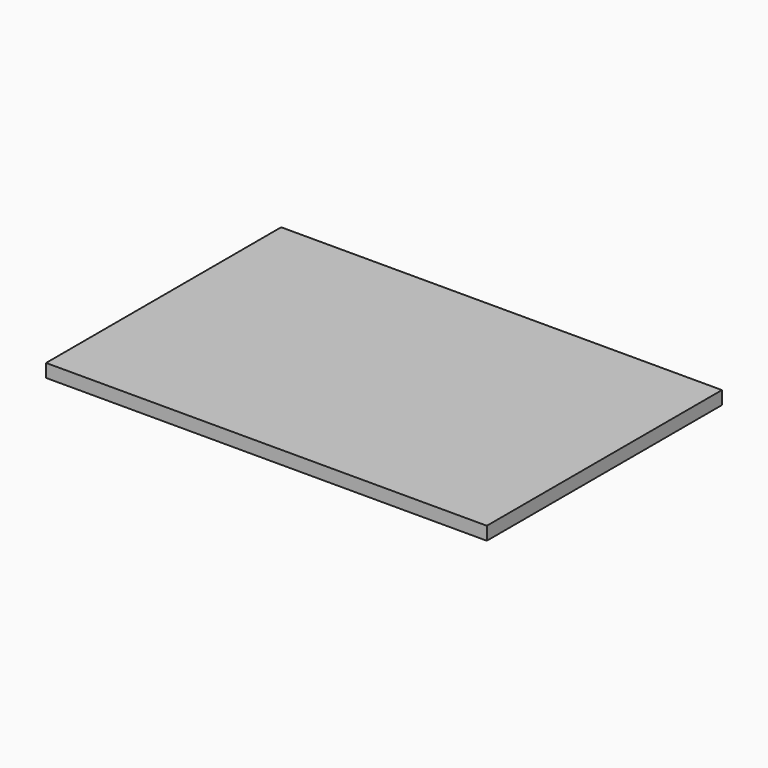
from build123d import *

# Parameters (mm, degrees)
SKETCH_W  = 600
SKETCH_H  = 400
PAD_DEPTH = 18


with BuildPart() as part:
    # Sketch → Pad (new body)
    with BuildSketch(Plane.XY):
        with Locations((-300, 200)):
            Rectangle(SKETCH_W, SKETCH_H)
    extrude(amount=PAD_DEPTH)


solid = part.part
